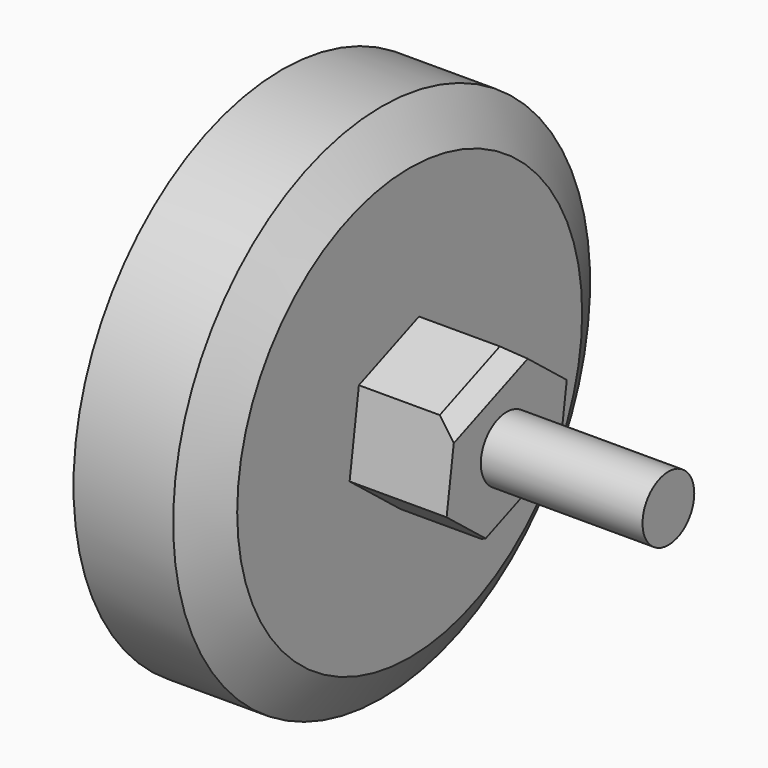
from build123d import *

# Parameters (mm, degrees)
F3_DEPTH = 15
F4_R     = 5
F5_DEPTH = 25
F6_SIZE  = 2.5


with BuildPart() as f1:
    # F0 (on Front) → F1 (revolve)
    with BuildSketch(Plane.XZ):
        Polygon((-24.945579, 0), (-0.863729, 0), (-0.863729, 33.33446), (-5.200911, 40.288184), (-20.608397, 40.288184), (-24.945579, 33.33446), align=None)
    revolve(axis=Axis((-33.212595, 0, 0), (-1, 0, 0)))

    # F2 (on face) → F3 (join)
    with BuildSketch(Plane.YZ.offset(-0.863729)):
        Polygon((9.813965, -7.74184), (11.611613, 4.628223), (1.797647, 12.370063), (-9.813965, 7.74184), (-11.611613, -4.628223), (-1.797647, -12.370063), align=None)
    extrude(amount=F3_DEPTH)

    # F4 (on face) → F5 (join)
    with BuildSketch(Plane.YZ.offset(14.136271)):
        Circle(F4_R)
    extrude(amount=F5_DEPTH)

    # F6
    f6_edges = [f1.edges().sort_by_distance(p)[0] for p in [
        (14.136271, 4.008159, -10.055952),
        (14.136271, -4.008159, 10.055952),
    ]]
    chamfer(f6_edges, length=F6_SIZE)


solid = f1.part
